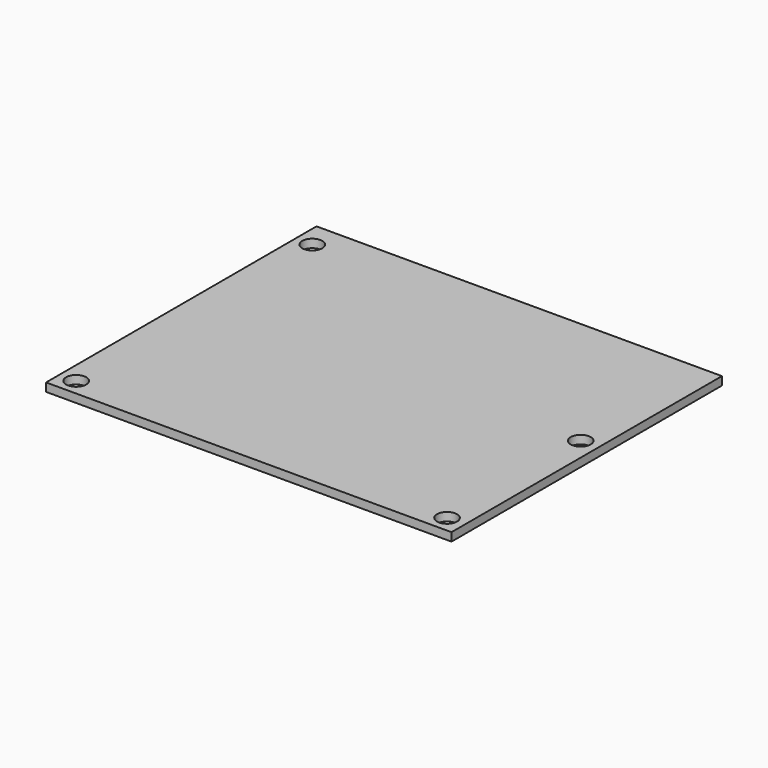
from build123d import *

# Parameters (mm, degrees)
CYLINDER006_R     = 1.8
CYLINDER006_DEPTH = 20
CYLINDER007_R     = 1.8
CYLINDER007_DEPTH = 20
CYLINDER008_R     = 1.8
CYLINDER008_DEPTH = 20
CYLINDER005_R     = 1.8
CYLINDER005_DEPTH = 20
BOX037_W          = 72.8
BOX037_H          = 60.7
BOX037_DEPTH      = 1.5


with BuildPart() as cylinder006:
    # Cylinder006 → Cylinder006 (new body)
    with BuildSketch(Plane(origin=(69.6, 3, 0), x_dir=(1, 0, 0), z_dir=(0, 0, 1))):
        Circle(CYLINDER006_R)
    extrude(amount=CYLINDER006_DEPTH)


with BuildPart() as cylinder007:
    # Cylinder007 → Cylinder007 (new body)
    with BuildSketch(Plane(origin=(3, 56, 0), x_dir=(1, 0, 0), z_dir=(0, 0, 1))):
        Circle(CYLINDER007_R)
    extrude(amount=CYLINDER007_DEPTH)


with BuildPart() as cylinder008:
    # Cylinder008 → Cylinder008 (new body)
    with BuildSketch(Plane(origin=(3, 3, 0), x_dir=(1, 0, 0), z_dir=(0, 0, 1))):
        Circle(CYLINDER008_R)
    extrude(amount=CYLINDER008_DEPTH)


with BuildPart() as fusion010:
    # Cylinder005 → Cylinder005 (new body)
    with BuildSketch(Plane(origin=(69.6, 33, 0), x_dir=(1, 0, 0), z_dir=(0, 0, 1))):
        Circle(CYLINDER005_R)
    extrude(amount=CYLINDER005_DEPTH)

    # Fusion010: union Cylinder006, Cylinder007, Cylinder008
    add(cylinder006.part)
    add(cylinder007.part)
    add(cylinder008.part)


with BuildPart() as fusion010_1:
    # Fusion010 placement: moved
    add(fusion010.part.moved(Location((0, 0, -10))))


with BuildPart() as cut004:
    # Box037 → Box037 (new body)
    with BuildSketch(Plane.XY):
        with Locations((36.4, 30.35)):
            Rectangle(BOX037_W, BOX037_H)
    extrude(amount=BOX037_DEPTH)

    # Cut004: cut Fusion010
    add(fusion010_1.part, mode=Mode.SUBTRACT)


solid = cut004.part
